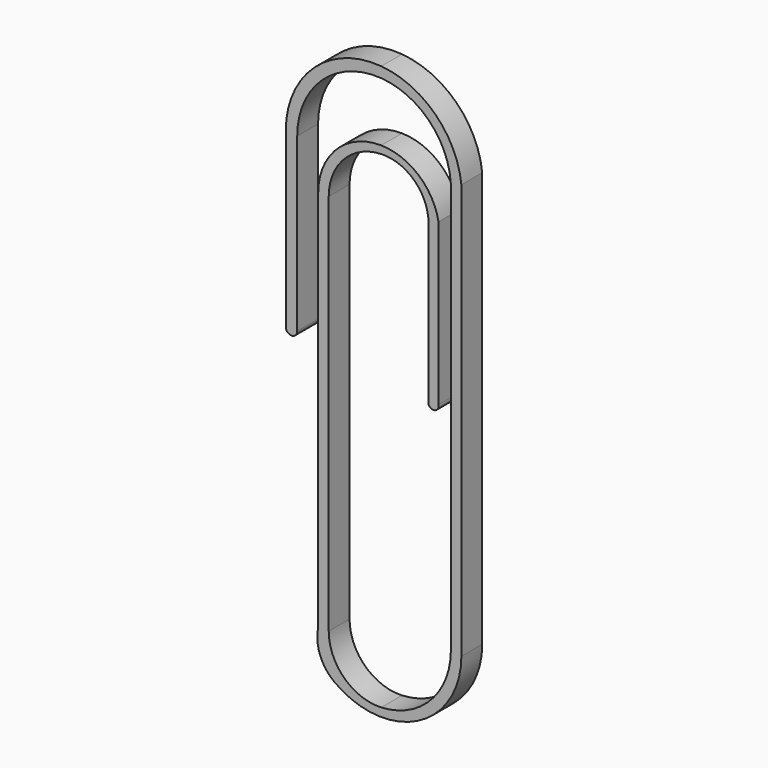
from build123d import *

# Parameters (mm, degrees)
F1_DEPTH = 6.35


with BuildPart() as f1:
    # F0 (on Front) → F1 (new body)
    with BuildSketch(Plane.XZ):
        with BuildLine():
            Line((-23.258721, 42.098287), (-23.258721, 0))
            Line((-23.258721, 0), (-20.467674, 0))
            Line((-20.467674, 0), (-20.467674, 41.865699))
            ThreePointArc((-20.467674, 41.865699), (-14.382355, 55.853843), (0, 60.937852))
            ThreePointArc((0, 60.937852), (12.369428, 54.855917), (16.978867, 41.865699))
            Line((16.978867, 41.865699), (16.978867, -56.286104))
            ThreePointArc((16.978867, -56.286104), (12.05257, -68.579909), (0, -74.070048))
            ThreePointArc((0, -74.070048), (-9.004714, -70.703917), (-12.792297, -61.868198))
            Line((-12.792297, -61.868198), (-12.792297, 31.399276))
            ThreePointArc((-12.792297, 31.399276), (-9.072782, 40.610728), (0, 44.656746))
            ThreePointArc((0, 44.656746), (7.714477, 41.92331), (11.47794, 34.655493))
            Line((11.47794, 34.655493), (11.47794, -4.86559))
            ThreePointArc((11.47794, -4.86559), (12.839579, -6.109321), (13.955234, -4.640906))
            Line((13.955234, -4.640906), (13.955234, 34.655493))
            ThreePointArc((13.955234, 34.655493), (9.106457, 43.090984), (0, 46.517439))
            ThreePointArc((0, 46.517439), (-10.840308, 42.17198), (-15.350756, 31.399276))
            Line((-15.350756, 31.399276), (-15.350756, -61.868198))
            ThreePointArc((-15.350756, -61.868198), (-14.91293, -67.682874), (-11.396773, -72.334625))
            ThreePointArc((-11.396773, -72.334625), (8.869642, -74.070048), (19.537326, -56.751277))
            Line((19.537326, -56.751277), (19.537326, 44.424161))
            ThreePointArc((19.537326, 44.424161), (13.19602, 57.471188), (0, 63.496314))
            ThreePointArc((0, 63.496314), (-16.324334, 57.900531), (-23.258721, 42.098287))
        make_face()
        with BuildLine():
            Line((-20.467674, 0), (-23.258721, 0))
            ThreePointArc((-23.258721, 0), (-21.863198, -1.395524), (-20.467674, 0))
        make_face()
    extrude(amount=F1_DEPTH)


solid = f1.part
